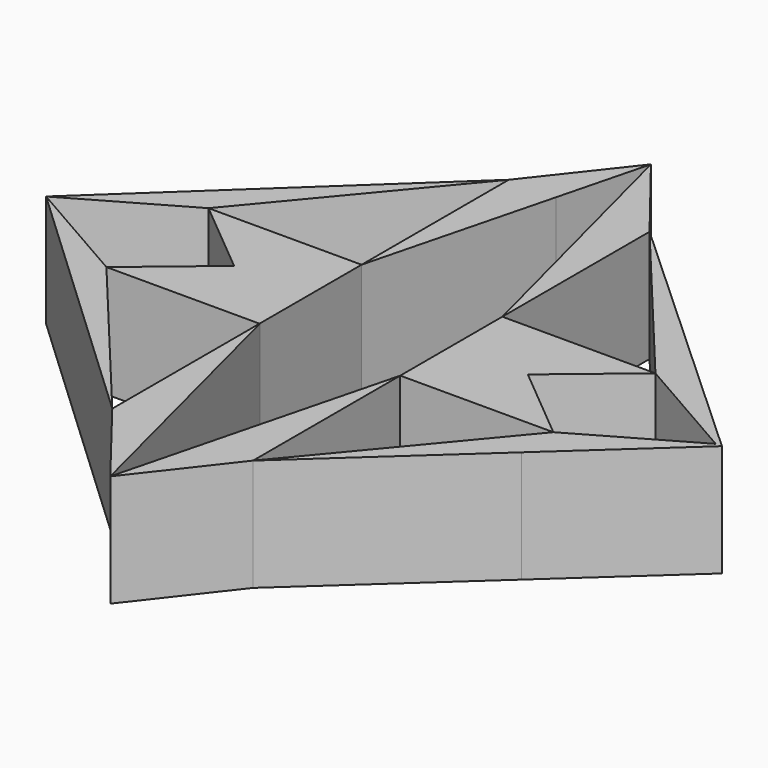
from build123d import *

# Parameters (mm, degrees)
F1_DEPTH = 25.4


with BuildPart() as f1:
    # F0 (on Top) → F1 (new body)
    with BuildSketch(Plane.XY):
        Polygon((5.2263641986, 56.1735033989), (15.9494206309, 56.1735033989), (0, 76.5046328306), align=None)
        Polygon((5.2263641986, 56.1735033989), (15.9494206309, 14.4596388564), (15.9494206309, 56.1735033989), align=None)
    extrude(amount=F1_DEPTH)


with BuildPart() as f1b:
    # F0 (on Top) → F1, piece 2 (new body)
    with BuildSketch(Plane.XY):
        Polygon((-5.2263641986, 56.1735033989), (0, 76.5046328306), (-15.9494206309, 56.1735033989), align=None)
        Polygon((-15.9494206309, 56.1735033989), (-15.9494206309, 14.4596388564), (-5.2263641986, 56.1735033989), align=None)
    extrude(amount=F1_DEPTH)


with BuildPart() as f1c:
    # F0 (on Top) → F1, piece 3 (new body)
    with BuildSketch(Plane.XY):
        Polygon((0, -76.6799002886), (15.9494206309, -56.1735033989), (5.256569839, -56.1735033989), align=None)
        Polygon((15.9494206309, -56.1735033989), (15.9494206309, -14.4596388564), (5.256569839, -56.1735033989), align=None)
    extrude(amount=F1_DEPTH)


with BuildPart() as f1d:
    # F0 (on Top) → F1, piece 4 (new body)
    with BuildSketch(Plane.XY):
        Polygon((-15.9494206309, -56.1735033989), (0, -76.6799002886), (-5.2373147649, -56.1735033989), align=None)
        Polygon((-5.2373147649, -56.1735033989), (-15.890997118, -14.4596388564), (-15.9494206309, -14.4596388564), (-15.9494206309, -56.1735033989), align=None)
    extrude(amount=F1_DEPTH)


with BuildPart() as f1e:
    # F0 (on Top) → F1, piece 5 (new body)
    with BuildSketch(Plane.XY):
        with BuildLine():
            Line((-75.8911967278, 0), (-50.6525523961, 14.4596388564))
            ThreePointArc((-50.6525523961, 14.4596388564), (-50.327204748, 19.7034883297), (-49.3561521884, 24.8669043809))
            Line((-49.3561521884, 24.8669043809), (-75.8911967278, 0))
        make_face()
        with BuildLine():
            ThreePointArc((-49.3561521884, 24.8669043809), (-50.327204748, 19.7034883297), (-50.6525523961, 14.4596388564))
            Line((-50.6525523961, 14.4596388564), (-15.9494206309, 56.1735033989))
            Line((-15.9494206309, 56.1735033989), (-49.3561521884, 24.8669043809))
        make_face()
    extrude(amount=F1_DEPTH)


with BuildPart() as f1f:
    # F0 (on Top) → F1, piece 6 (new body)
    with BuildSketch(Plane.XY):
        with BuildLine():
            ThreePointArc((-51.1674289623, -23.1694945169), (-51.1801863692, -18.7985942716), (-50.6525523961, -14.4596388564))
            Line((-50.6525523961, -14.4596388564), (-75.8911967278, 0))
            Line((-75.8911967278, 0), (-51.1674289623, -23.1694945169))
        make_face()
        with BuildLine():
            Line((-51.1674289623, -23.1694945169), (-15.9494206309, -56.1735033989))
            Line((-15.9494206309, -56.1735033989), (-50.6525523961, -14.4596388564))
            ThreePointArc((-50.6525523961, -14.4596388564), (-51.1801863692, -18.7985942716), (-51.1674289623, -23.1694945169))
        make_face()
    extrude(amount=F1_DEPTH)


with BuildPart() as f1g:
    # F0 (on Top) → F1, piece 7 (new body)
    with BuildSketch(Plane.XY):
        with BuildLine():
            Line((15.9494206309, 56.1735033989), (50.6525523961, 14.4596388564))
            ThreePointArc((50.6525523961, 14.4596388564), (50.2639622803, 20.1883867551), (49.1053109848, 25.8121827987))
            Line((49.1053109848, 25.8121827987), (15.9494206309, 56.1735033989))
        make_face()
        with BuildLine():
            ThreePointArc((51.1053201889, -23.9807459107), (51.2018522384, -19.2048364024), (50.6525523961, -14.4596388564))
            Line((50.6525523961, -14.4596388564), (15.9494206309, -56.1735033989))
            Line((15.9494206309, -56.1735033989), (51.1053201889, -23.9807459107))
        make_face()
        with BuildLine():
            Line((75.8911967278, 0), (50.6525523961, -14.4596388564))
            ThreePointArc((50.6525523961, -14.4596388564), (51.2018522384, -19.2048364024), (51.1053201889, -23.9807459107))
            Line((51.1053201889, -23.9807459107), (77.293343842, 0))
            Line((77.293343842, 0), (49.1053109848, 25.8121827987))
            ThreePointArc((49.1053109848, 25.8121827987), (50.2639622803, 20.1883867551), (50.6525523961, 14.4596388564))
            Line((50.6525523961, 14.4596388564), (75.8911967278, 0))
        make_face()
    extrude(amount=F1_DEPTH)


with BuildPart() as f1h:
    # F0 (on Top) → F1, piece 8 (new body)
    with BuildSketch(Plane.XY):
        Polygon((33.3009865135, 0), (50.6525523961, 14.4596388564), (15.9494206309, 14.4596388564), align=None)
        Polygon((15.9494206309, -14.4596388564), (50.6525523961, -14.4596388564), (33.3009865135, 0), align=None)
        Polygon((15.9494206309, 14.4596388564), (15.9494206309, -14.4596388564), (33.3009865135, 0), align=None)
    extrude(amount=F1_DEPTH)


with BuildPart() as f1i:
    # F0 (on Top) → F1, piece 9 (new body)
    with BuildSketch(Plane.XY):
        Polygon((-33.2863929196, 0.0121613288), (-15.9494206309, 14.4596388564), (-50.6525523961, 14.4596388564), align=None)
        Polygon((-50.6525523961, -14.4596388564), (-15.9494206309, -14.4596388564), (-15.9494206309, -14.4110344201), (-33.2863929196, 0.0121613288), align=None)
        Polygon((-33.2863929196, 0.0121613288), (-15.9494206309, -14.4110344201), (-15.9494206309, 14.4596388564), align=None)
    extrude(amount=F1_DEPTH)


solid = Compound([f1.part, f1b.part, f1c.part, f1d.part, f1e.part, f1f.part, f1g.part, f1h.part, f1i.part])
